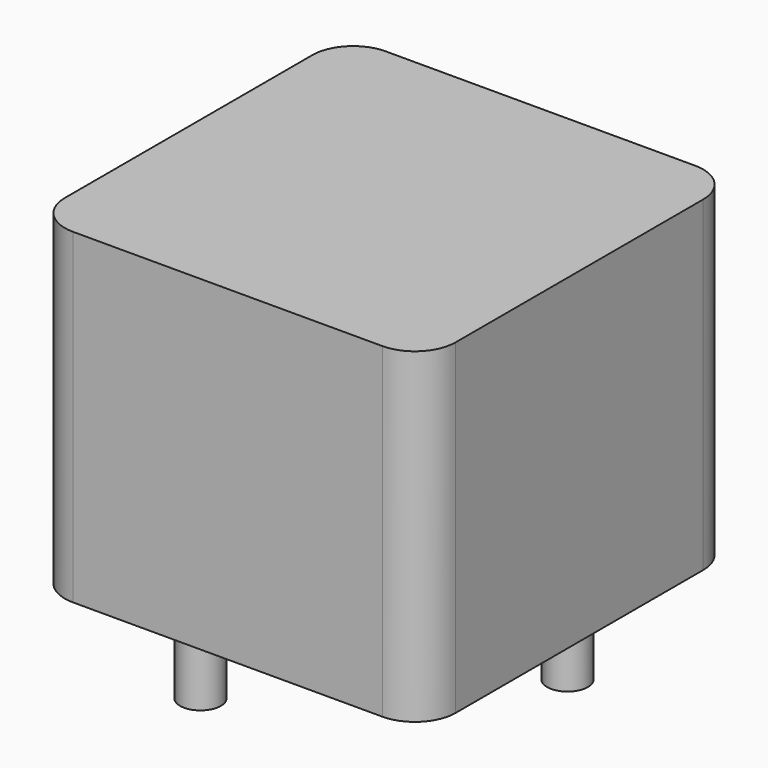
from build123d import *

# Parameters (mm, degrees)
SKETCH001_R  = 0.6
PAD001_DEPTH = 3.5
SKETCH_W     = 11.5
SKETCH_H     = 11.5
PAD_DEPTH    = 9.6
FILLET_R     = 1.2


with BuildPart() as pad001:
    # Sketch001 → Pad001 (new body)
    with BuildSketch(Plane.XY.offset(0.5)):
        Circle(SKETCH001_R)
        with Locations((6, 6)):
            Circle(SKETCH001_R)
    extrude(amount=-PAD001_DEPTH)


with BuildPart() as fillet_body:
    # Sketch → Pad (new body)
    with BuildSketch(Plane.XY.offset(0.1)):
        with Locations((3, 3)):
            Rectangle(SKETCH_W, SKETCH_H)
    extrude(amount=PAD_DEPTH)

    # Fillet
    fillet_edges = [fillet_body.edges().sort_by_distance(p)[0] for p in [
        (8.75, -2.75, 4.9),
        (8.75, 8.75, 4.9),
        (-2.75, -2.75, 4.9),
        (-2.75, 8.75, 4.9),
    ]]
    fillet(fillet_edges, radius=FILLET_R)


solid = Compound([pad001.part, fillet_body.part])
